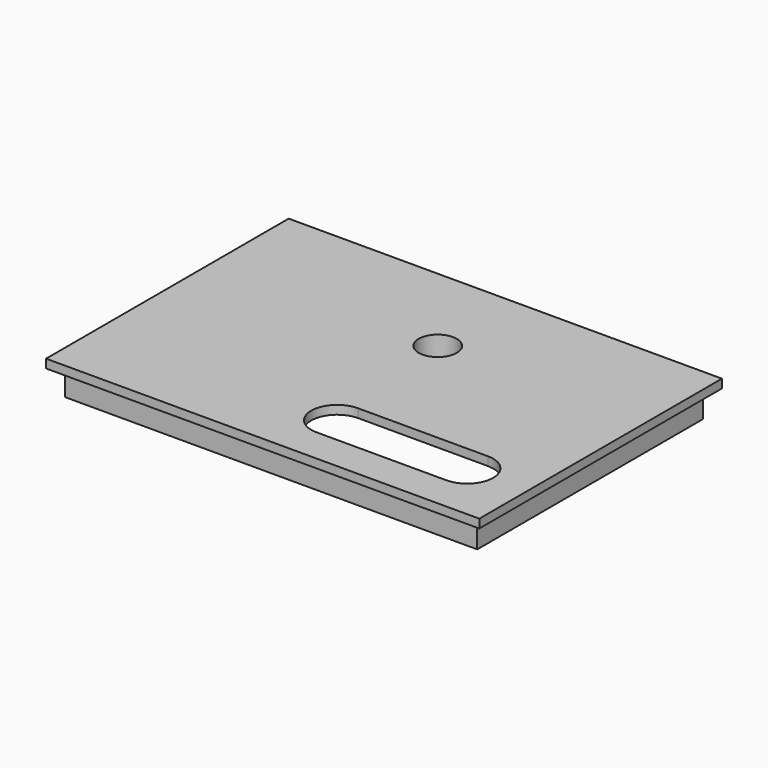
from build123d import *

# Parameters (mm, degrees)
SKETCH_W      = 63.5
SKETCH_H      = 44.45
PAD_DEPTH     = 1.27
SKETCH001_W   = 60.452
SKETCH001_H   = 41.402
SKETCH001_W_2 = 58.42
SKETCH001_H_2 = 39.37
PAD001_DEPTH  = 3.81
SKETCH002_R   = 2.794
POCKET_DEPTH  = 5.081
SKETCH003_R   = 3.81
SKETCH003_R_2 = 2.794
PAD002_DEPTH  = 5.08


with BuildPart() as part:
    # Sketch → Pad (new body)
    with BuildSketch(Plane.XY):
        with Locations((31.75, 22.225)):
            Rectangle(SKETCH_W, SKETCH_H)
    extrude(amount=PAD_DEPTH)

    # Sketch001 (on Face5 of Pad) → Pad001 (join)
    with BuildSketch(Plane(origin=(0, 0, 0), x_dir=(1, 0, 0), z_dir=(0, 0, -1))):
        with Locations((31.75, -22.225)):
            Rectangle(SKETCH001_W, SKETCH001_H)
        with Locations((31.75, -22.225)):
            Rectangle(SKETCH001_W_2, SKETCH001_H_2, mode=Mode.SUBTRACT)
    extrude(amount=PAD001_DEPTH)

    # Sketch002 (on Face5 of Pad001) → Pocket (cut, through all)
    with BuildSketch(Plane.XY.offset(1.27)):
        with Locations((33.02, 30.48)):
            Circle(SKETCH002_R)
        with BuildLine():
            ThreePointArc((54.61, 5.08), (58.42, 8.89), (54.61, 12.7))
            Line((54.61, 12.7), (35.56, 12.7))
            ThreePointArc((35.56, 12.7), (31.75, 8.89), (35.56, 5.08))
            Line((54.61, 5.08), (35.56, 5.08))
        make_face()
    extrude(amount=-POCKET_DEPTH, mode=Mode.SUBTRACT)

    # Sketch003 (on Face17 of Pocket) → Pad002 (join)
    with BuildSketch(Plane(origin=(0, 0, 0), x_dir=(1, 0, 0), z_dir=(0, 0, -1))):
        with Locations((33.02, -30.48)):
            Circle(SKETCH003_R)
        with Locations((33.02, -30.48)):
            Circle(SKETCH003_R_2, mode=Mode.SUBTRACT)
    extrude(amount=PAD002_DEPTH)


solid = part.part
